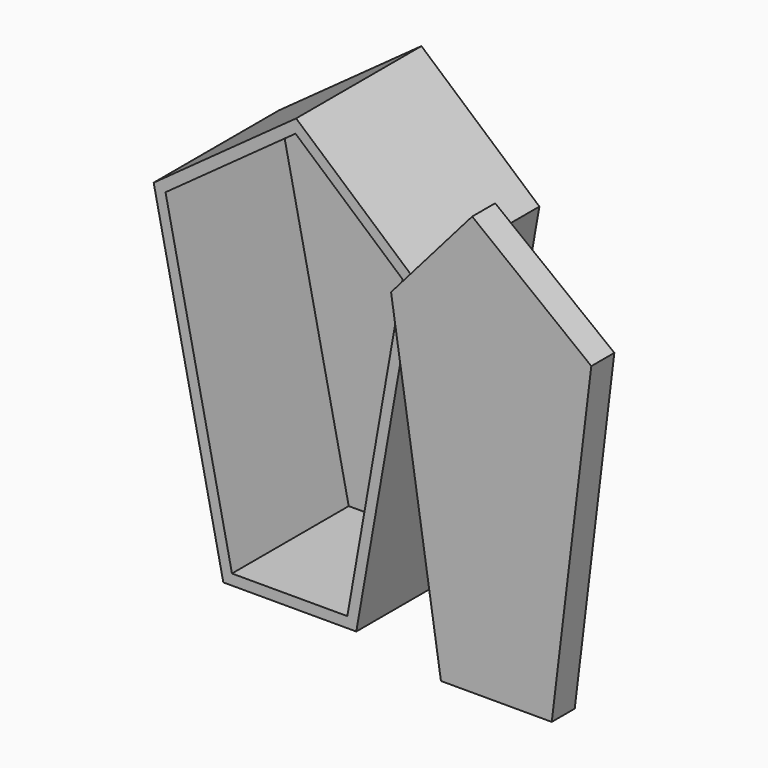
from build123d import *

# Parameters (mm, degrees)
F1_DEPTH = 37.338
F2_T     = -2.54
F4_DEPTH = 6.858


with BuildPart() as f1:
    # F0 (on Front) → F1 (new body)
    with BuildSketch(Plane.XZ):
        Polygon((-62.083233, 24.908774), (-45.477383, -53.591605), (-13.775306, -53.591605), (0, 24.908774), (-28.116722, 49.440142), align=None)
    extrude(amount=F1_DEPTH)

    # F2
    f2_openings = [f1.faces().sort_by_distance(p)[0] for p in [
        (-30.351472, -37.338, -2.700199),
    ]]
    offset(amount=F2_T, openings=f2_openings)


with BuildPart() as f4:
    # F3 (on face) → F4 (new body)
    with BuildSketch(Plane.XZ.offset(37.338)):
        Polygon((19.335996, 47.0708), (0, 24.908774), (11.888279, -52.836794), (38.306672, -52.836794), (47.741815, 24.908774), align=None)
    extrude(amount=F4_DEPTH)


solid = Compound([f1.part, f4.part])
